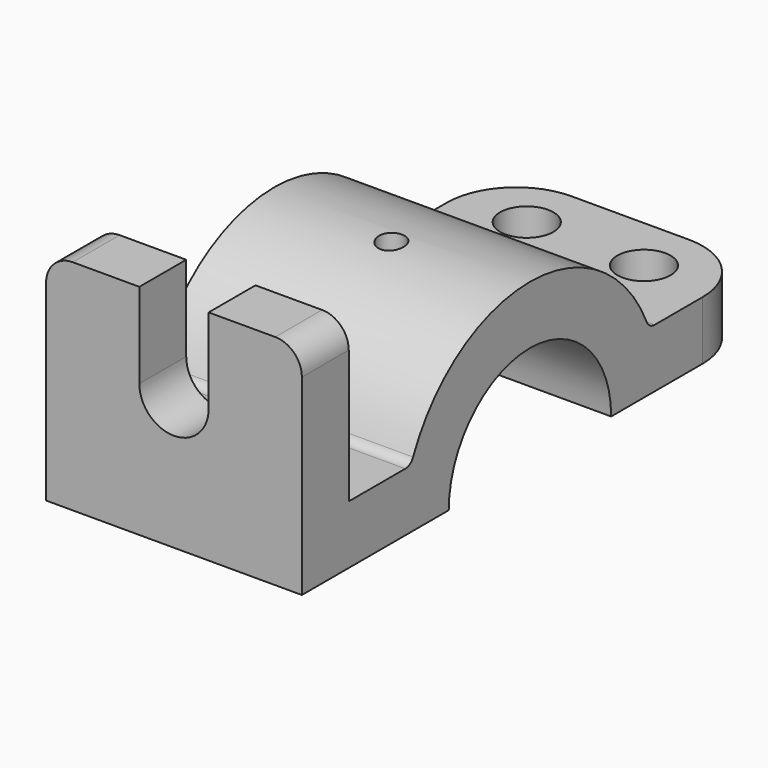
from build123d import *

# Parameters (mm, degrees)
F1_DEPTH = 24
F2_R     = 13
F3_R     = 5
F5_DEPTH = 11
F6_R     = 2.5
F7_DEPTH = 41.001
F8_R     = 5
F9_DEPTH = 11.001
F10_R    = 2


with BuildPart() as f1:
    # F0 (on Right) → F1 (new body, symmetric)
    with BuildSketch(Plane.YZ):
        with BuildLine():
            Line((0, 41), (0, 0))
            Line((0, 0), (34.45, 0))
            ThreePointArc((34.45, 0), (53.5, 19.05), (72.55, 0))
            Line((72.55, 0), (107, 0))
            Line((107, 0), (107, 11))
            Line((107, 11), (81.410571, 11))
            ThreePointArc((81.410571, 11), (53.5, 30), (25.589429, 11))
            Line((25.589429, 11), (11, 11))
            Line((11, 11), (11, 41))
            Line((11, 41), (0, 41))
        make_face()
    extrude(amount=F1_DEPTH, both=True)

    # F2
    f2_edges = [f1.edges().sort_by_distance(p)[0] for p in [
        (24, 107, 5.5),
        (-24, 107, 5.5),
    ]]
    fillet(f2_edges, radius=F2_R)

    # F3
    f3_edges = [f1.edges().sort_by_distance(p)[0] for p in [
        (-24, 5.5, 41),
        (24, 5.5, 41),
    ]]
    fillet(f3_edges, radius=F3_R)

    # F4 (on face) → F5 (cut, through all)
    with BuildSketch(Plane.XZ):
        with BuildLine():
            Line((-6.5, 41), (-6.5, 25))
            ThreePointArc((-6.5, 25), (0, 18.5), (6.5, 25))
            Line((6.5, 25), (6.5, 41))
            Line((6.5, 41), (-6.5, 41))
        make_face()
    extrude(amount=-F5_DEPTH, mode=Mode.SUBTRACT)

    # F6 (on Top) → F7 (cut, through all)
    with BuildSketch(Plane.XY):
        with Locations((0, 51)):
            Circle(F6_R)
    extrude(amount=F7_DEPTH, mode=Mode.SUBTRACT)

    # F8 (on face) → F9 (cut, through all)
    with BuildSketch(Plane.XY.offset(11)):
        with Locations((-11, 96.5)):
            Circle(F8_R)
        with Locations((11, 96.5)):
            Circle(F8_R)
    extrude(amount=-F9_DEPTH, mode=Mode.SUBTRACT)

    # F10
    f10_edges = [f1.edges().sort_by_distance(p)[0] for p in [
        (0, 25.589429, 11),
        (0, 81.410571, 11),
    ]]
    fillet(f10_edges, radius=F10_R)


solid = f1.part
